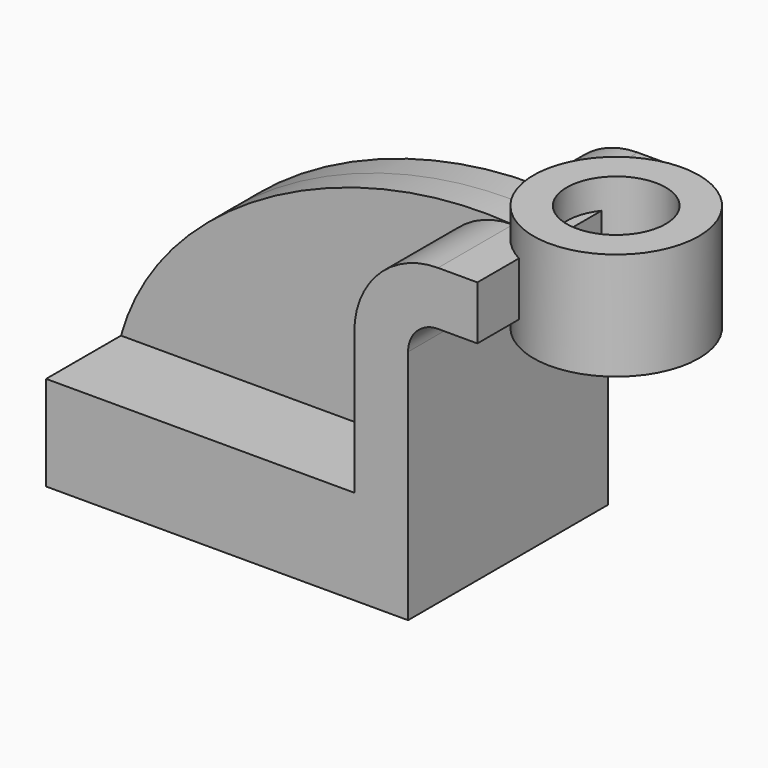
from build123d import *

# Parameters (mm, degrees)
F1_DEPTH = 25.4
F2_DEPTH = 6.35
F3_DEPTH = 25.4
F0_W     = 6.747447
F0_H     = 21.873236


with BuildPart() as f1:
    # F0 (on Front) → F1 (new body, symmetric)
    with BuildSketch(Plane.XZ):
        Polygon((36.823142, -9.641493), (36.823142, 9.641493), (25.886526, 9.641493), (-36.823142, 9.641493), (-36.823142, -9.641493), align=None)
    extrude(amount=F1_DEPTH, both=True)

    # F0 (on Front) → F2 (join, symmetric)
    with BuildSketch(Plane.XZ):
        with BuildLine():
            Line((-36.823142, 9.641493), (25.886526, 9.641493))
            Line((25.886526, 9.641493), (25.886526, 38.422067))
            ThreePointArc((25.886526, 38.422067), (30.875817, 50.467279), (42.921029, 55.456569))
            add(Edge.make_bspline(
                [(-36.823142, 9.641493), (-28.796567, 38.422067), (9.193794, 57.992861), (42.921029, 55.456569)],
                knots=[0, 0, 0, 0, 91.968223, 91.968223, 91.968223, 91.968223], degree=3))
        make_face()
    extrude(amount=F2_DEPTH, both=True)

    # F0 (on Front) → F3 (join, symmetric)
    with BuildSketch(Plane.XZ):
        with BuildLine():
            Line((25.886526, 9.641493), (36.823142, 9.641493))
            Line((36.823142, 9.641493), (36.823142, 38.422067))
            ThreePointArc((36.823142, 38.422067), (38.609172, 42.733923), (42.921029, 44.519953))
            Line((42.921029, 44.519953), (50.925627, 44.519953))
            Line((50.925627, 44.519953), (50.925627, 55.456569))
            Line((50.925627, 55.456569), (42.921029, 55.456569))
            ThreePointArc((42.921029, 55.456569), (30.875817, 50.467279), (25.886526, 38.422067))
            Line((25.886526, 38.422067), (25.886526, 9.641493))
        make_face()
    extrude(amount=F3_DEPTH, both=True)

    # F0 (on Front) → F4 (revolve)
    with BuildSketch(Plane.XZ):
        with Locations((72.303209, 50.509911)):
            Rectangle(F0_W, F0_H)
    revolve(axis=Axis((58.856271, 0, 50.509911), (0, 0, 1)))


solid = f1.part
